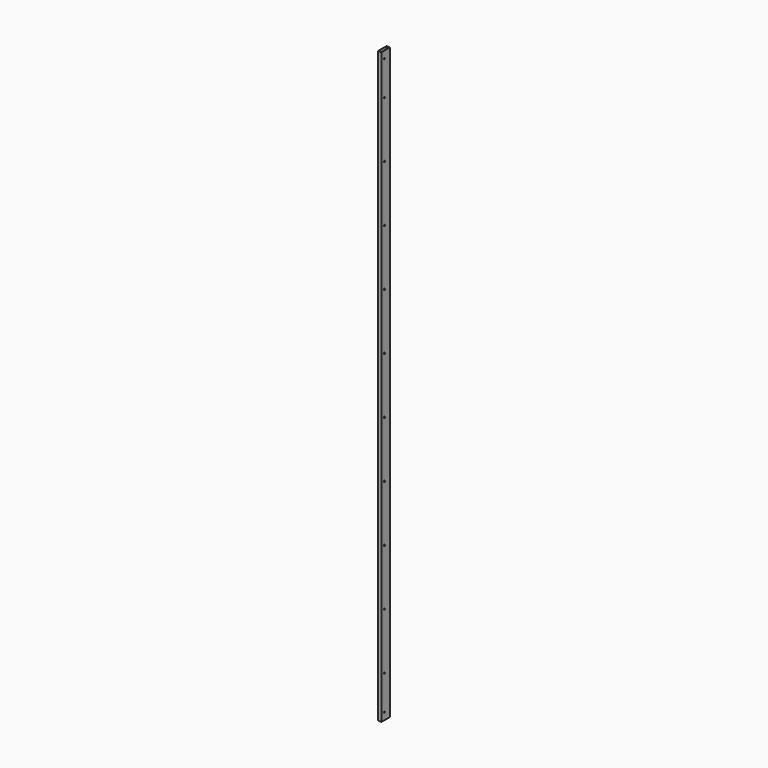
from build123d import *

# Parameters (mm, degrees)
F0_W     = 25.4
F0_H     = 76.2
F0_W_2   = 22.225
F0_H_2   = 73.025
F1_DEPTH = 2127.25
F3_D     = 10.7188


with BuildPart() as f1:
    # F0 (on Top) → F1 (new body, symmetric)
    with BuildSketch(Plane.XY):
        Rectangle(F0_W, F0_H)
        Rectangle(F0_W_2, F0_H_2, mode=Mode.SUBTRACT)
    extrude(amount=F1_DEPTH, both=True)

    # F3 (through all)
    with Locations(Plane.YZ.offset(12.7)):
        with Locations((-12.7, 2076.45), (-12.7, 1828.8), (-12.7, 1422.4), (-12.7, 1016), (-12.7, 609.6), (-12.7, 203.2), (-12.7, -203.2), (-12.7, -609.6), (-12.7, -1016), (-12.7, -1422.4), (-12.7, -1828.8), (-12.7, -2076.45)):
            Hole(F3_D / 2)


solid = f1.part
